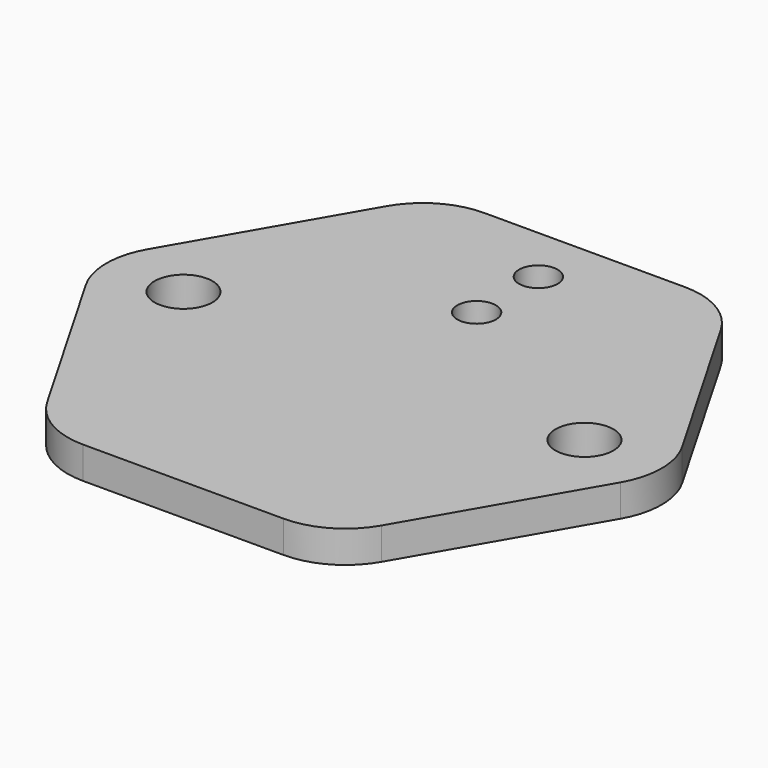
from build123d import *

# Parameters (mm, degrees)
CYLINDER001_R     = 1
CYLINDER001_DEPTH = 10
CYLINDER_R        = 1
CYLINDER_DEPTH    = 10
SKETCH_R          = 1.5
PAD_DEPTH         = 1.66


with BuildPart() as cilindro001:
    # Cylinder001 → Cylinder001 (new body)
    with BuildSketch(Plane(origin=(0, 6, -2), x_dir=(1, 0, 0), z_dir=(0, 0, 1))):
        Circle(CYLINDER001_R)
    extrude(amount=CYLINDER001_DEPTH)


with BuildPart() as cilindro:
    # Cylinder → Cylinder (new body)
    with BuildSketch(Plane(origin=(0, 10, -2), x_dir=(1, 0, 0), z_dir=(0, 0, 1))):
        Circle(CYLINDER_R)
    extrude(amount=CYLINDER_DEPTH)


with BuildPart() as obj1:
    # Sketch → Pad (new body)
    with BuildSketch(Plane.XY):
        with BuildLine():
            Line((-13.856406, 2), (-8.660254, 11))
            ThreePointArc((-5.196152, 13), (-7.196152, 12.464102), (-8.660254, 11))
            Line((-5.196152, 13), (5.196152, 13))
            ThreePointArc((8.660254, 11), (7.196152, 12.464102), (5.196152, 13))
            Line((8.660254, 11), (13.856406, 2))
            ThreePointArc((13.856406, -2), (14.392305, 0), (13.856406, 2))
            Line((13.856406, -2), (8.660254, -11))
            ThreePointArc((5.196152, -13), (7.196152, -12.464102), (8.660254, -11))
            Line((5.196152, -13), (-5.196152, -13))
            ThreePointArc((-8.660254, -11), (-7.196152, -12.464102), (-5.196152, -13))
            Line((-8.660254, -11), (-13.856406, -2))
            ThreePointArc((-13.856406, 2), (-14.392305, 0), (-13.856406, -2))
        make_face()
        with Locations((-10.392305, 0)):
            Circle(SKETCH_R, mode=Mode.SUBTRACT)
        with Locations((10.392305, 0)):
            Circle(SKETCH_R, mode=Mode.SUBTRACT)
    extrude(amount=PAD_DEPTH)

    # Cut003: cut Cilindro
    add(cilindro.part, mode=Mode.SUBTRACT)

    # Cut004: cut Cilindro001
    add(cilindro001.part, mode=Mode.SUBTRACT)


solid = obj1.part
